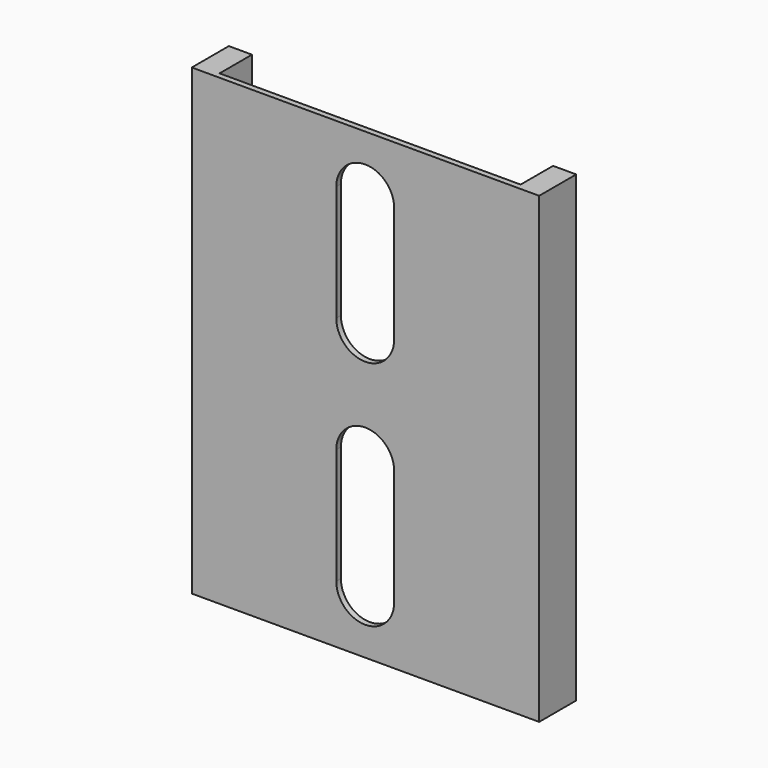
from build123d import *

# Parameters (mm, degrees)
F1_DEPTH = 400
F3_DEPTH = 25


with BuildPart() as f1:
    # F0 (on Top) → F1 (new body)
    with BuildSketch(Plane.XY):
        Polygon((-150, 20), (-150, -20), (150, -20), (150, 20), (130, 20), (130, -15), (-130, -15), (-130, 20), align=None)
    extrude(amount=F1_DEPTH)

    # F2 (on face) → F3 (cut)
    with BuildSketch(Plane.XZ.offset(20)):
        with BuildLine():
            Line((-25.221969, 350), (-25.221969, 250))
            ThreePointArc((-25.221969, 250), (-0.221969, 225), (24.778031, 250))
            Line((24.778031, 250), (24.778031, 350))
            ThreePointArc((24.778031, 350), (-0.221969, 375), (-25.221969, 350))
        make_face()
        with BuildLine():
            Line((24.778031, 50), (24.778031, 150))
            ThreePointArc((24.778031, 150), (-0.221969, 175), (-25.221969, 150))
            Line((-25.221969, 150), (-25.221969, 50))
            ThreePointArc((-25.221969, 50), (-0.221969, 25), (24.778031, 50))
        make_face()
    extrude(amount=-F3_DEPTH, mode=Mode.SUBTRACT)


solid = f1.part
